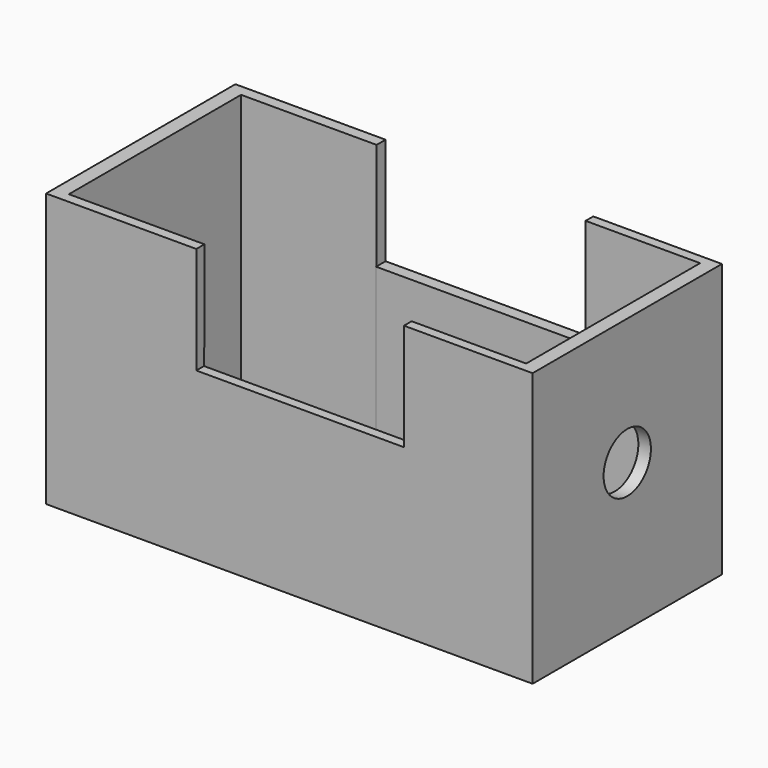
from build123d import *

# Parameters (mm, degrees)
F1_DEPTH = 60
F4_W     = 68.7287449837
F4_H     = 109.1447398067
F5_DEPTH = 150.7
F2_W     = 232.8136488795
F2_H     = 109.1045513749
F6_DEPTH = 101.1
F7_W     = 58.0749809742
F7_H     = 110.2500036359
F8_DEPTH = 147.8
F9_D     = 30


with BuildPart() as f1:
    # F0 (on Front) → F1 (new body, symmetric)
    with BuildSketch(Plane.XZ):
        Polygon((-117.1853020787, 46.0337400436), (-117.1853020787, -92.6193669438), (129.5173019171, -92.6193669438), (129.5173019171, 46.0337400436), (64.2818138003, 46.0337400436), (64.2818138003, -8.2185808569), (-41.0197302699, -8.2185808569), (-41.0197302699, 46.0337400436), align=None)
    extrude(amount=F1_DEPTH, both=True)

    # F4 (on face) → F5 (cut)
    with BuildSketch(Plane.XY.offset(46.0337400436)):
        with Locations((-75.3841027617, -0.2763159573)):
            Rectangle(F4_W, F4_H)
    extrude(amount=-F5_DEPTH, mode=Mode.SUBTRACT)

    # F2 (on Top) → F6 (cut)
    with BuildSketch(Plane.XY):
        with Locations((6.7387260497, -0.5727261305)):
            Rectangle(F2_W, F2_H)
    extrude(amount=-F6_DEPTH, mode=Mode.SUBTRACT)

    # F7 (on face) → F8 (cut)
    with BuildSketch(Plane.XY.offset(46.0337400436)):
        with Locations((93.3193042874, 0)):
            Rectangle(F7_W, F7_H)
    extrude(amount=-F8_DEPTH, mode=Mode.SUBTRACT)

    # F9 (through all)
    with Locations(Plane.YZ.offset(129.5173019171)):
        with Locations((0, -18.2496998459)):
            Hole(F9_D / 2)


solid = f1.part
